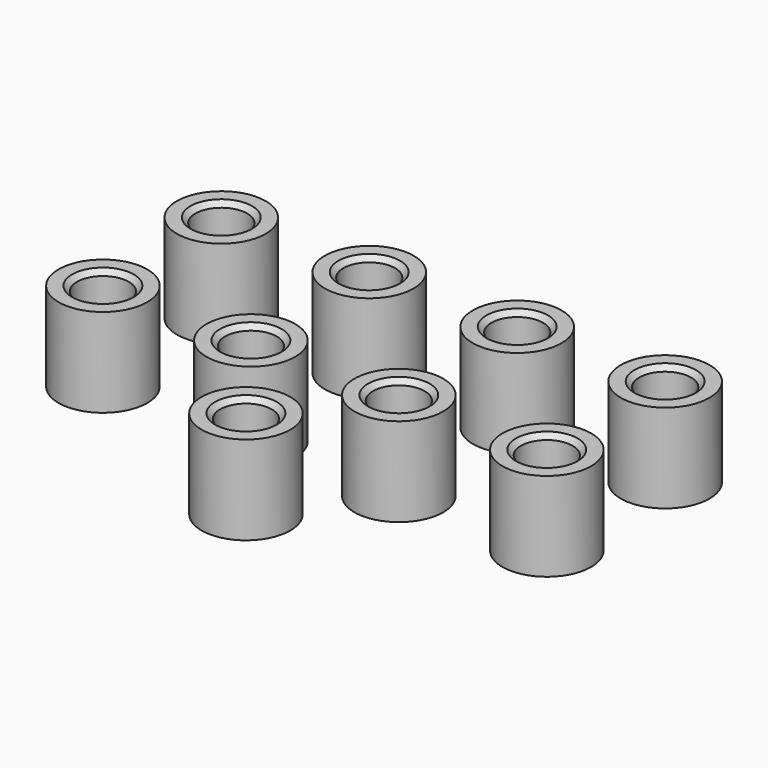
from build123d import *

# Parameters (mm, degrees)
F0_R      = 4.5
F0_R_2    = 2.625
F1_DEPTH  = 9
F8_SIZE   = 0.5
F8_2_SIZE = 0.5
F8_3_SIZE = 0.5
F8_4_SIZE = 0.5
F8_5_SIZE = 0.5
F8_6_SIZE = 0.5
F8_7_SIZE = 0.5
F8_8_SIZE = 0.5
F8_9_SIZE = 0.5


with BuildPart() as f1:
    # F0 (on Top) → F1 (new body)
    with BuildSketch(Plane.XY):
        with Locations((-11.3403657451, 6.900455337)):
            Circle(F0_R)
        with Locations((-11.3403657451, 6.900455337)):
            Circle(F0_R_2, mode=Mode.SUBTRACT)
    extrude(amount=F1_DEPTH)


with BuildPart() as f2_1:
    # F2: copy of F1
    add(f1.part.moved(Location((15, 0, 0))))


with BuildPart() as f3_1:
    # F3: copy of F1
    add(f1.part.moved(Location((0, 15, 0))))


with BuildPart() as f4_1:
    # F4: copy of F1
    add(f1.part.moved(Location((15, 15, 0))))


with BuildPart() as f5_1:
    # F5: copy of F1
    add(f1.part.moved(Location((30, 0, 0))))


with BuildPart() as f5_2:
    # F5: copy of F2_1
    add(f2_1.part.moved(Location((30, 0, 0))))


with BuildPart() as f5_3:
    # F5: copy of F3_1
    add(f3_1.part.moved(Location((30, 0, 0))))


with BuildPart() as f5_4:
    # F5: copy of F4_1
    add(f4_1.part.moved(Location((30, 0, 0))))


with BuildPart() as f1_1:
    # F6: moved
    add(f1.part.moved(Location((-15, 0, 0))))


with BuildPart() as f2_1_1:
    # F6: moved
    add(f2_1.part.moved(Location((-15, 0, 0))))

    # F8#8
    f8_8_edges = [f2_1_1.edges().sort_by_distance(p)[0] for p in [
        (-13.965366, 6.900455, 9),
        (-13.965366, 6.900455, 0),
    ]]
    chamfer(f8_8_edges, length=F8_8_SIZE)


with BuildPart() as f5_3_1:
    # F6: moved
    add(f5_3.part.moved(Location((-15, 0, 0))))

    # F8#3
    f8_3_edges = [f5_3_1.edges().sort_by_distance(p)[0] for p in [
        (1.034634, 21.900455, 9),
        (1.034634, 21.900455, 0),
    ]]
    chamfer(f8_3_edges, length=F8_3_SIZE)


with BuildPart() as f5_4_1:
    # F6: moved
    add(f5_4.part.moved(Location((-15, 0, 0))))

    # F8#6
    f8_6_edges = [f5_4_1.edges().sort_by_distance(p)[0] for p in [
        (16.034634, 21.900455, 9),
        (16.034634, 21.900455, 0),
    ]]
    chamfer(f8_6_edges, length=F8_6_SIZE)


with BuildPart() as f3_1_1:
    # F6: moved
    add(f3_1.part.moved(Location((-15, 0, 0))))

    # F8
    f8_edges = [f3_1_1.edges().sort_by_distance(p)[0] for p in [
        (-28.965366, 21.900455, 9),
        (-28.965366, 21.900455, 0),
    ]]
    chamfer(f8_edges, length=F8_SIZE)


with BuildPart() as f5_2_1:
    # F6: moved
    add(f5_2.part.moved(Location((-15, 0, 0))))

    # F8#5
    f8_5_edges = [f5_2_1.edges().sort_by_distance(p)[0] for p in [
        (16.034634, 6.900455, 9),
        (16.034634, 6.900455, 0),
    ]]
    chamfer(f8_5_edges, length=F8_5_SIZE)


with BuildPart() as f4_1_1:
    # F6: moved
    add(f4_1.part.moved(Location((-15, 0, 0))))

    # F8#2
    f8_2_edges = [f4_1_1.edges().sort_by_distance(p)[0] for p in [
        (-13.965366, 21.900455, 9),
        (-13.965366, 21.900455, 0),
    ]]
    chamfer(f8_2_edges, length=F8_2_SIZE)


with BuildPart() as f5_1_1:
    # F6: moved
    add(f5_1.part.moved(Location((-15, 0, 0))))

    # F8#4
    f8_4_edges = [f5_1_1.edges().sort_by_distance(p)[0] for p in [
        (1.034634, 6.900455, 9),
        (1.034634, 6.900455, 0),
    ]]
    chamfer(f8_4_edges, length=F8_4_SIZE)


with BuildPart() as f7_1:
    # F7: copy of F1
    add(f1_1.part.moved(Location((22.5, -10, 0))))

    # F8#7
    f8_7_edges = [f7_1.edges().sort_by_distance(p)[0] for p in [
        (-6.465366, -3.099545, 9),
        (-6.465366, -3.099545, 0),
    ]]
    chamfer(f8_7_edges, length=F8_7_SIZE)


with BuildPart() as f1_2:
    add(f1_1.part)

    # F8#9
    f8_9_edges = [f1_2.edges().sort_by_distance(p)[0] for p in [
        (-28.965366, 6.900455, 9),
        (-28.965366, 6.900455, 0),
    ]]
    chamfer(f8_9_edges, length=F8_9_SIZE)


solid = Compound([f2_1_1.part, f5_3_1.part, f5_4_1.part, f3_1_1.part, f5_2_1.part, f4_1_1.part, f5_1_1.part, f7_1.part, f1_2.part])
